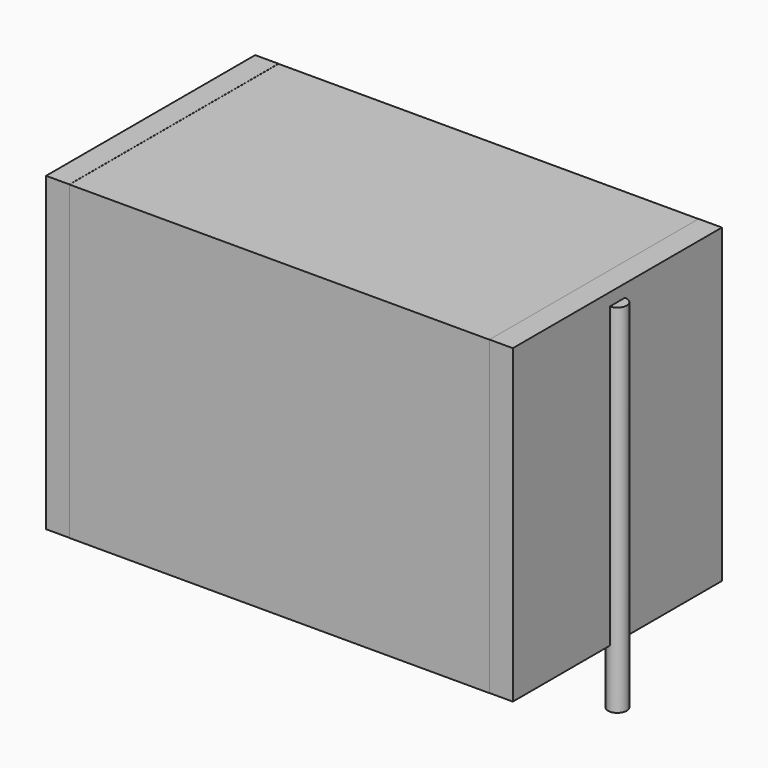
from build123d import *

# Parameters (mm, degrees)
SKETCH_W          = 20.25
SKETCH_H          = 12.6
PAD_DEPTH         = 15
SKETCH001_R       = 0.45
PAD001_DEPTH      = 14
PAD001_DEPTH_BACK = 3.2
SKETCH002_W       = 1.125
SKETCH002_H       = 12.6
PAD002_DEPTH      = 15


with BuildPart() as pad:
    # Sketch → Pad (new body)
    with BuildSketch(Plane.XY.offset(0.1)):
        with Locations((11.25, 0)):
            Rectangle(SKETCH_W, SKETCH_H)
    extrude(amount=PAD_DEPTH)


with BuildPart() as pad001:
    # Sketch001 → Pad001 (new body, two sides)
    with BuildSketch(Plane.XY.offset(0.5)) as pad001_sk:
        Circle(SKETCH001_R)
        with Locations((22.5, 0)):
            Circle(SKETCH001_R)
    extrude(amount=PAD001_DEPTH)
    extrude(pad001_sk.sketch, amount=-PAD001_DEPTH_BACK)


with BuildPart() as pad002:
    # Sketch002 → Pad002 (new body)
    with BuildSketch(Plane.XY.offset(0.105)):
        with Locations((0.5625, 0)):
            Rectangle(SKETCH002_W, SKETCH002_H)
        with Locations((21.9375, 0)):
            Rectangle(SKETCH002_W, SKETCH002_H)
    extrude(amount=PAD002_DEPTH)


solid = Compound([pad.part, pad001.part, pad002.part])
